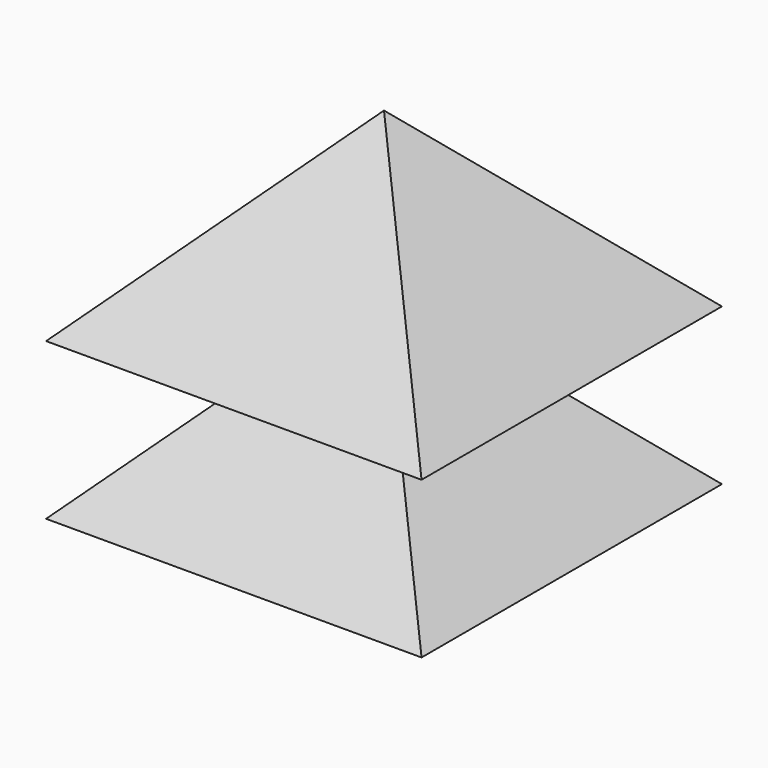
from build123d import *

# Parameters (mm, degrees)
F0_W     = 60
F0_H     = 60
F1_DEPTH = 30
F1_TAPER = 45
F3_W     = 60
F3_H     = 60
F4_DEPTH = 30
F4_TAPER = 45


with BuildPart() as f1:
    # F0 (on Top) → F1 (new body)
    with BuildSketch(Plane.XY):
        Rectangle(F0_W, F0_H)
    extrude(amount=F1_DEPTH, taper=F1_TAPER)


with BuildPart() as f4:
    # F3 (on offset) → F4 (new body)
    with BuildSketch(Plane.XY.offset(-25)):
        Rectangle(F3_W, F3_H)
    extrude(amount=F4_DEPTH, taper=F4_TAPER)


solid = Compound([f1.part, f4.part])
